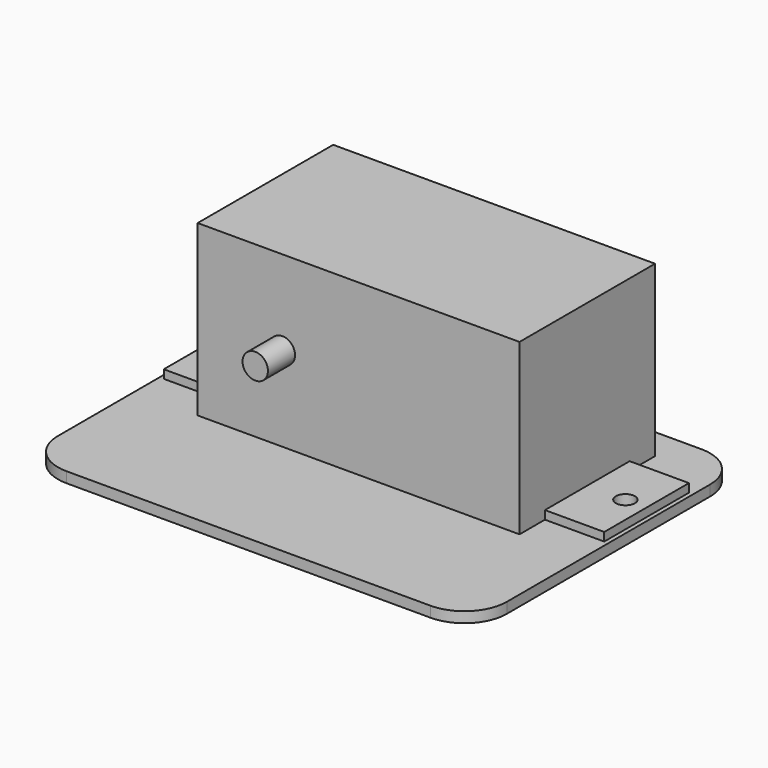
from build123d import *

# Parameters (mm, degrees)
F0_W      = 212
F0_H      = 160
F1_DEPTH  = 5
F2_W      = 152
F2_H      = 80
F3_DEPTH  = 80
F4_R      = 6
F5_DEPTH  = 16
F6_R      = 6
F7_DEPTH  = 16
F9_D      = 8.8
F9_DEPTH  = 15
F9_TIP    = 2.6437867237
F10_R     = 20
F11_R     = 17.5
F11_R_2   = 6
F12_DEPTH = 10
F13_W     = 28
F13_H     = 50
F14_DEPTH = 4
F16_D     = 9
F16_DEPTH = 15
F16_TIP   = 2.7038727856


with BuildPart() as f1:
    # F0 (on Top) → F1 (new body)
    with BuildSketch(Plane.XY):
        Rectangle(F0_W, F0_H)
    extrude(amount=F1_DEPTH)

    # F2 (on face) → F3 (join)
    with BuildSketch(Plane.XY.offset(5)):
        with Locations((0, 25)):
            Rectangle(F2_W, F2_H)
    extrude(amount=F3_DEPTH)

    # F4 (on face) → F5 (join)
    with BuildSketch(Plane.XZ.offset(15)):
        with Locations((-36, 45)):
            Circle(F4_R)
    extrude(amount=F5_DEPTH)

    # F6 (on face) → F7 (join)
    with BuildSketch(Plane(origin=(0, 65, 0), x_dir=(-1, 0, 0), z_dir=(0, 1, 0))):
        with Locations((-36, 45)):
            Circle(F6_R)
    extrude(amount=F7_DEPTH)

    # F9
    with Locations(Plane(origin=(0, 81, 0), x_dir=(-1, 0, 0), z_dir=(0, 1, 0))):
        with Locations((-36, 45)):
            Hole(F9_D / 2, depth=F9_DEPTH)
            with Locations((0, 0, -(F9_DEPTH + F9_TIP / 2))):  # 118° drill point
                Cone(0, F9_D / 2, F9_TIP, mode=Mode.SUBTRACT)

    # F10
    f10_edges = [f1.edges().sort_by_distance(p)[0] for p in [
        (106, -80, 2.5),
        (106, 80, 2.5),
        (-106, 80, 2.5),
        (-106, -80, 2.5),
    ]]
    fillet(f10_edges, radius=F10_R)

    # F11 (on face) → F12 (join)
    with BuildSketch(Plane(origin=(0, 65, 0), x_dir=(-1, 0, 0), z_dir=(0, 1, 0))):
        with Locations((-36, 45)):
            Circle(F11_R)
        with Locations((-36, 45)):
            Circle(F11_R_2, mode=Mode.SUBTRACT)
    extrude(amount=F12_DEPTH)

    # F13 (on face) → F14 (join)
    with BuildSketch(Plane.XY.offset(5)):
        with Locations((-90, 25)):
            Rectangle(F13_W, F13_H)
        with Locations((90, 25)):
            Rectangle(F13_W, F13_H)
    extrude(amount=F14_DEPTH)

    # F16
    with Locations(Plane.XY.offset(9)):
        with Locations((-94, 25), (94, 25)):
            Hole(F16_D / 2, depth=F16_DEPTH)
            with Locations((0, 0, -(F16_DEPTH + F16_TIP / 2))):  # 118° drill point
                Cone(0, F16_D / 2, F16_TIP, mode=Mode.SUBTRACT)


solid = f1.part
